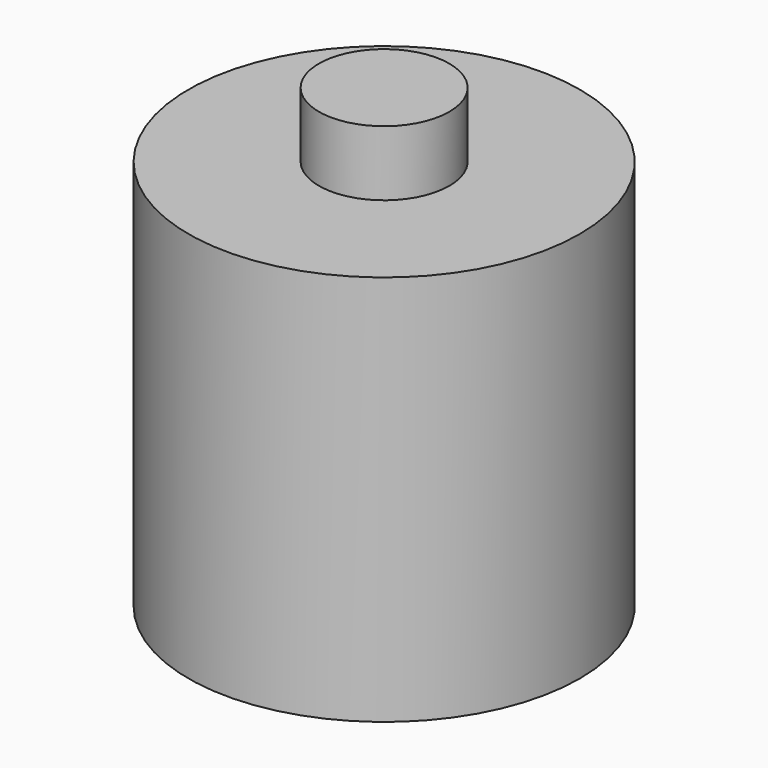
from build123d import *

# Parameters (mm, degrees)
SKETCH_R     = 15
PAD_DEPTH    = 15
SKETCH002_R  = 5
PAD001_DEPTH = 20


with BuildPart() as part:
    # Sketch → Pad (new body, symmetric)
    with BuildSketch(Plane.XY):
        Circle(SKETCH_R)
    extrude(amount=PAD_DEPTH, both=True)

    # Sketch002 → Pad001 (join, symmetric)
    with BuildSketch(Plane.XY):
        Circle(SKETCH002_R)
    extrude(amount=PAD001_DEPTH, both=True)


solid = part.part
